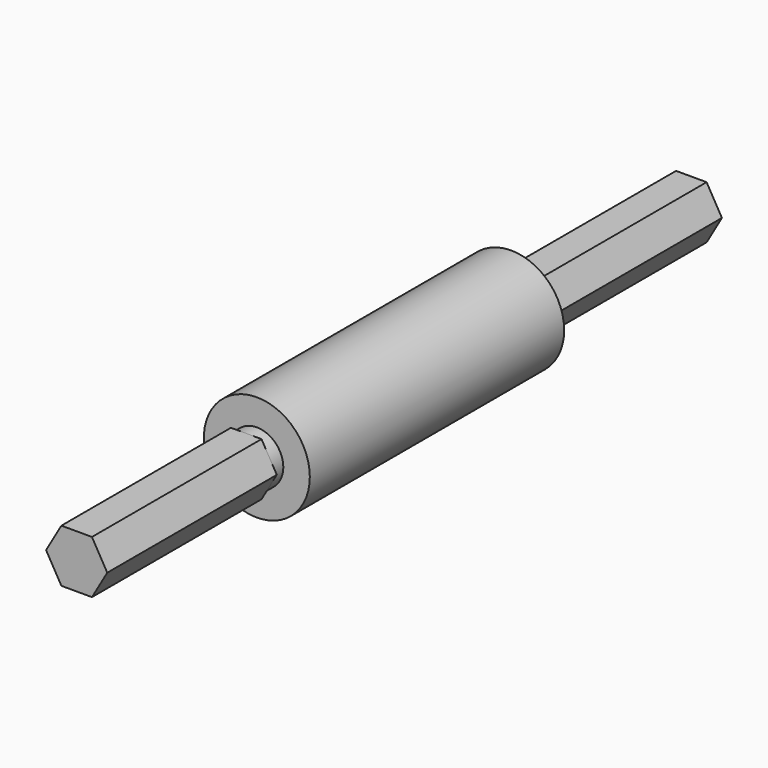
from build123d import *

# Parameters (mm, degrees)
F0_W     = 6.35
F0_H     = 3.175
F3_DEPTH = 50.8
F5_DEPTH = 50.8


with BuildPart() as f1:
    # F0 (on Top) → F1 (revolve)
    with BuildSketch(Plane.XY):
        with Locations((3.175, 39.6875)):
            Rectangle(F0_W, F0_H)
        Polygon((6.35, 38.1), (0, 38.1), (0, -38.1), (6.35, -38.1), (12.7, -38.1), (12.7, 38.1), align=None)
        with Locations((3.175, -39.6875)):
            Rectangle(F0_W, F0_H)
    revolve(axis=Axis((0, 0, 0), (0, -1, 0)))

    # F2 (on face) → F3 (join)
    with BuildSketch(Plane(origin=(0, 41.275, 0), x_dir=(-1, 0, 0), z_dir=(0, 1, 0))):
        Polygon((7.332348, 0), (3.666174, 6.35), (-3.666174, 6.35), (-7.332348, 0), (-3.666174, -6.35), (3.666174, -6.35), align=None)
    extrude(amount=F3_DEPTH)

    # F4 (on face) → F5 (join)
    with BuildSketch(Plane.XZ.offset(41.275)):
        Polygon((7.332348, 0), (3.666174, 6.35), (-3.666174, 6.35), (-7.332348, 0), (-3.666174, -6.35), (3.666174, -6.35), align=None)
    extrude(amount=F5_DEPTH)


solid = f1.part
